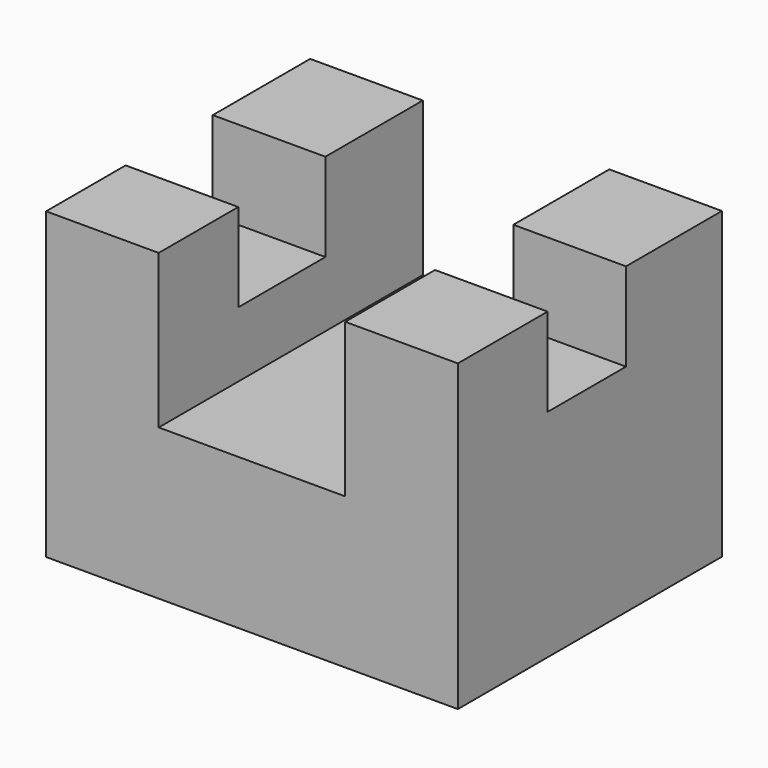
from build123d import *

# Parameters (mm, degrees)
F1_DEPTH = 50.8
F2_W     = 17.3335857689
F2_H     = 15.0761622936
F3_DEPTH = 13.589
F4_W     = 17.3335857689
F4_H     = 16.7590361089
F5_DEPTH = 13.589


with BuildPart() as f1:
    # F0 (on Front) → F1 (new body)
    with BuildSketch(Plane.XZ):
        Polygon((0, 46.8351207674), (0, 0), (63.3651614189, 0), (63.3651614189, 46.8351207674), (46.03157565, 46.8351207674), (46.03157565, 23.1879781932), (17.3335857689, 23.1879781932), (17.3335857689, 46.8351207674), align=None)
    extrude(amount=F1_DEPTH)

    # F2 (on face) → F3 (cut)
    with BuildSketch(Plane.XY.offset(46.8351207674)):
        with Locations((54.6983685344, -25.9903585538)):
            Rectangle(F2_W, F2_H)
    extrude(amount=-F3_DEPTH, mode=Mode.SUBTRACT)

    # F4 (on face) → F5 (cut)
    with BuildSketch(Plane.XY.offset(46.8351207674)):
        with Locations((8.6667928845, -27.1185943857)):
            Rectangle(F4_W, F4_H)
    extrude(amount=-F5_DEPTH, mode=Mode.SUBTRACT)


solid = f1.part
